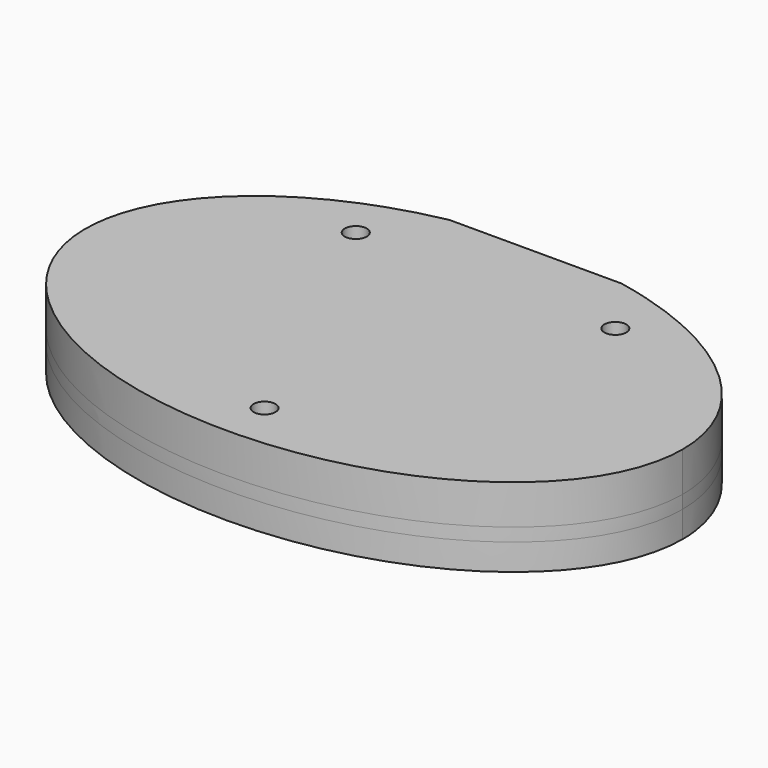
from build123d import *

# Parameters (mm, degrees)
BOX_BOTTOM_HALF_0_W     = 69.994952
BOX_BOTTOM_HALF_0_H     = 46.031044
BOX_BOTTOM_HALF_0_DEPTH = 5.5
PAD_DEPTH               = 6
POCKET_DEPTH            = 3
PAD001_DEPTH            = 3
SKETCH003_W             = 56
SKETCH003_H             = 2.77
POCKET001_DEPTH         = 3
SKETCH004_W             = 19.6
SKETCH004_H             = 1
POCKET002_DEPTH         = 9.001
SKETCH005_R             = 1.25
POCKET003_DEPTH         = 9.001


with BuildPart() as box_bottom_half_0_body:
    # box_bottom_half_0 → box_bottom_half_0 (new body)
    with BuildSketch(Plane(origin=(-34.994952, -23.485952, -4), x_dir=(1, 0, 0), z_dir=(0, 0, 1))):
        with Locations((34.997476, 23.015522)):
            Rectangle(BOX_BOTTOM_HALF_0_W, BOX_BOTTOM_HALF_0_H)
    extrude(amount=BOX_BOTTOM_HALF_0_DEPTH)


with BuildPart() as body:
    # Sketch → Pad (new body)
    with BuildSketch(Plane.XY):
        with BuildLine():
            add(Edge.make_bspline(
                [(34, 0), (34, 38.971143), (-17, 19.485572), (-68, 0), (-17, -19.485572), (34, -38.971143), (34, 0)],
                knots=[0, 0, 0, 2.094395, 2.094395, 4.18879, 4.18879, 6.283185, 6.283185, 6.283185], degree=2, weights=[1, 0.5, 1, 0.5, 1, 0.5, 1]))
        make_face()
    extrude(amount=PAD_DEPTH)

    # Sketch001 (on Face2 of Pad) → Pocket (cut)
    with BuildSketch(Plane(origin=(0, 0, 0), x_dir=(1, 0, 0), z_dir=(0, 0, -1))):
        Polygon((9.775, -3.450064), (9.775, -21.550064), (-9.775, -21.550064), (-9.775, -3.450064), (-28.5, -3.450064), (-28.5, 8.549936), (28.5, 8.549936), (28.5, -3.450064), align=None)
    extrude(amount=-POCKET_DEPTH, mode=Mode.SUBTRACT)

    # Sketch002 (on Face2 of Pocket) → Pad001 (join)
    with BuildSketch(Plane(origin=(0, 0, 0), x_dir=(1, 0, 0), z_dir=(0, 0, -1))):
        with BuildLine():
            add(Edge.make_bspline(
                [(34, 0), (34, 38.971143), (-17, 19.485572), (-68, 0), (-17, -19.485572), (34, -38.971143), (34, 0)],
                knots=[0, 0, 0, 2.094395, 2.094395, 4.18879, 4.18879, 6.283185, 6.283185, 6.283185], degree=2, weights=[1, 0.5, 1, 0.5, 1, 0.5, 1]))
        make_face()
    extrude(amount=PAD001_DEPTH)

    # Sketch003 (on Face4 of Pad001) → Pocket001 (cut)
    with BuildSketch(Plane(origin=(0, 0, -3), x_dir=(1, 0, 0), z_dir=(0, 0, -1))):
        with Locations((0, 2.549936)):
            Rectangle(SKETCH003_W, SKETCH003_H)
    extrude(amount=-POCKET001_DEPTH, mode=Mode.SUBTRACT)

    # Sketch004 (on Face4 of Pocket001) → Pocket002 (cut, through all)
    with BuildSketch(Plane(origin=(0, 0, -3), x_dir=(1, 0, 0), z_dir=(0, 0, -1))):
        with Locations((0, -22.045091)):
            Rectangle(SKETCH004_W, SKETCH004_H)
    extrude(amount=-POCKET002_DEPTH, mode=Mode.SUBTRACT)

    # Sketch005 (on Face7 of Pocket002) → Pocket003 (cut, through all)
    with BuildSketch(Plane(origin=(0, 0, -3), x_dir=(1, 0, 0), z_dir=(0, 0, -1))):
        with Locations((-14.775, -14.450064)):
            Circle(SKETCH005_R)
        with Locations((0, 17)):
            Circle(SKETCH005_R)
        with Locations((14.775, -14.450064)):
            Circle(SKETCH005_R)
    extrude(amount=-POCKET003_DEPTH, mode=Mode.SUBTRACT)


with BuildPart() as bottom_half_0_body:
    # bottom_half_0 base: copy of Body
    add(body.part)

    # bottom_half_0: intersect box_bottom_half_0 body
    add(box_bottom_half_0_body.part, mode=Mode.INTERSECT)


with BuildPart() as top_half_0_body:
    # top_half_0 base: copy of Body
    add(body.part)

    # top_half_0: cut box_bottom_half_0 body
    add(box_bottom_half_0_body.part, mode=Mode.SUBTRACT)


solid = Compound([bottom_half_0_body.part, top_half_0_body.part])
